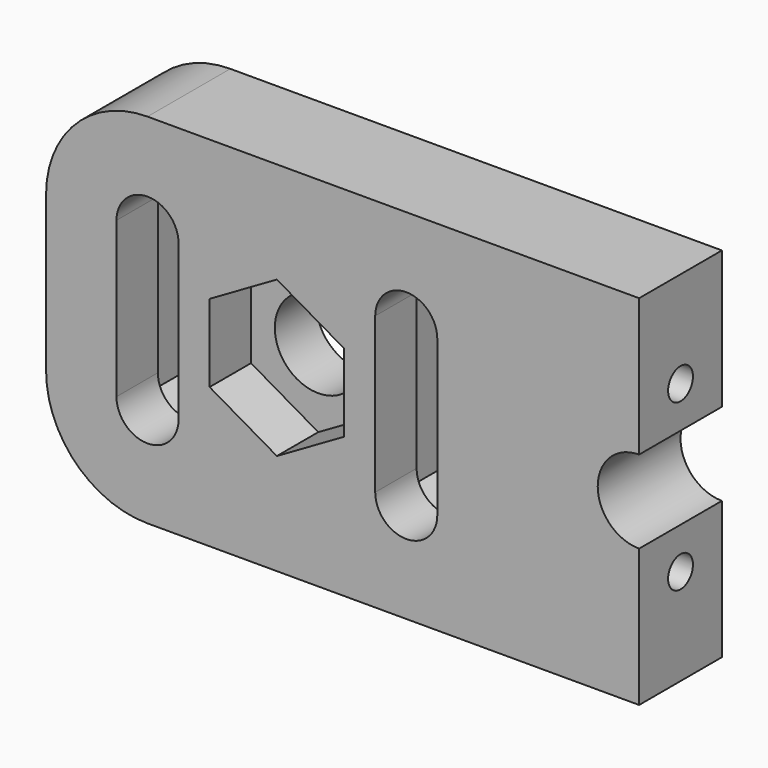
from build123d import *

# Parameters (mm, degrees)
SKETCH_R             = 4.2
PAD_DEPTH            = 10
POCKET_DEPTH         = 5
POCKET001_DEPTH      = 5
SKETCH003_R          = 1.5
POCKET002_DEPTH      = 10
BODY_PLACEMENT_ANGLE = 270


with BuildPart() as part:
    # Sketch → Pad (new body)
    with BuildSketch(Plane.XY):
        with BuildLine():
            ThreePointArc((-22.3, -7.500028), (-19.429637, -14.429656), (-12.5, -17.3))
            Line((-12.5, -17.3), (35, -17.3))
            Line((35, -4), (35, -17.3))
            ThreePointArc((35, 4), (31, 0), (35, -4))
            Line((35, 4), (35, 17.3))
            Line((-12.5, 17.3), (35, 17.3))
            ThreePointArc((-12.5, 17.3), (-19.429639, 14.429654), (-22.3, 7.500021))
            Line((-22.3, -7.500028), (-22.3, 7.500021))
        make_face()
        Circle(SKETCH_R, mode=Mode.SUBTRACT)
        with BuildLine():
            ThreePointArc((-15.5, -7.5), (-12.5, -10.5), (-9.5, -7.5))
            Line((-9.5, -7.5), (-9.5, 7.5))
            ThreePointArc((-9.5, 7.5), (-12.5, 10.5), (-15.5, 7.5))
            Line((-15.5, -7.5), (-15.5, 7.5))
        make_face(mode=Mode.SUBTRACT)
        with BuildLine():
            ThreePointArc((9.5, -7.5), (12.5, -10.5), (15.5, -7.5))
            Line((15.5, -7.5), (15.5, 7.5))
            ThreePointArc((15.5, 7.5), (12.5, 10.5), (9.5, 7.5))
            Line((9.5, -7.5), (9.5, 7.5))
        make_face(mode=Mode.SUBTRACT)
    extrude(amount=PAD_DEPTH)

    # Sketch001 (on Face19 of Pad) → Pocket (cut)
    with BuildSketch(Plane.XY.offset(10)):
        Polygon((-12.5, 13.273503), (-17.5, 10.386751), (-17.5, 4.613249), (-17.5, -4.613249), (-17.5, -10.386751), (-12.5, -13.273503), (-7.5, -10.386751), (-7.5, -4.613249), (-7.5, 4.613249), (-7.5, 10.386751), align=None)
        Polygon((7.5, -4.613249), (7.5, -10.386751), (12.5, -13.273503), (17.5, -10.386751), (17.5, -4.613249), (17.5, 4.613249), (17.5, 10.386751), (12.5, 13.273503), (7.5, 10.386751), (7.5, 4.613249), align=None)
    extrude(amount=-POCKET_DEPTH, mode=Mode.SUBTRACT)

    # Sketch002 → Pocket001 (cut)
    with BuildSketch(Plane.XY):
        Polygon((-6.5, 3.752777), (-6.5, -3.752777), (0, -7.505553), (6.5, -3.752777), (6.5, 3.752777), (0, 7.505553), align=None)
    extrude(amount=POCKET001_DEPTH, mode=Mode.SUBTRACT)

    # Sketch003 (on Face10 of Pocket001) → Pocket002 (cut)
    with BuildSketch(Plane.YZ.offset(35)):
        with Locations((-8, 5)):
            Circle(SKETCH003_R)
        with Locations((8, 5)):
            Circle(SKETCH003_R)
    extrude(amount=-POCKET002_DEPTH, mode=Mode.SUBTRACT)


with BuildPart() as part_1:
    # Body placement: moved
    add(part.part.moved(Location((0, 0, 15))).rotate(Axis((0, 0, 15), (1, 0, 0)), BODY_PLACEMENT_ANGLE))


solid = part_1.part
